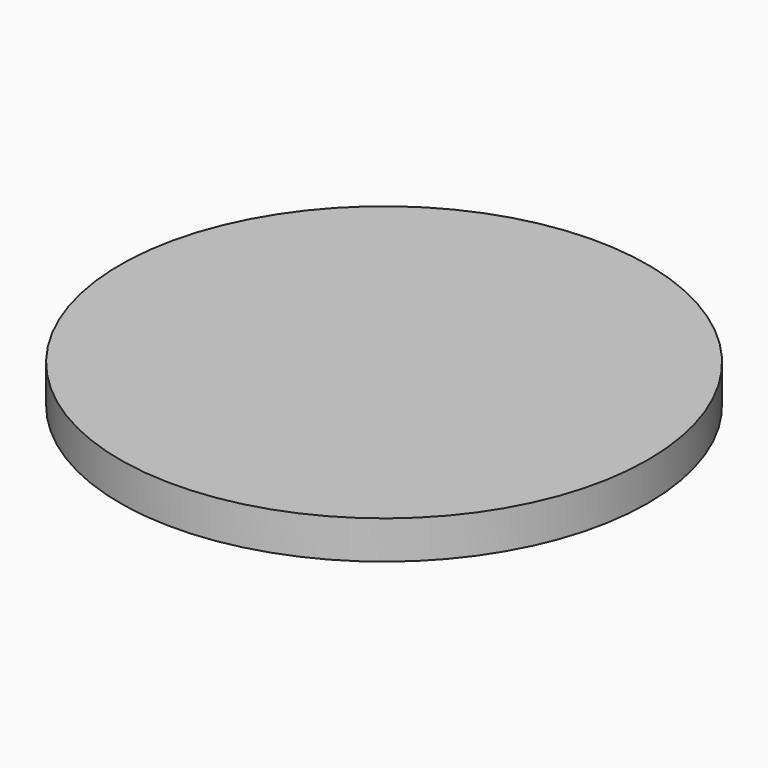
from build123d import *

# Parameters (mm, degrees)
SKETCH_1_R  = 45
PAD_1_DEPTH = 6.5


with BuildPart() as part:
    # Sketch_1 → Pad_1 (new body)
    with BuildSketch(Plane.XY):
        Circle(SKETCH_1_R)
    extrude(amount=PAD_1_DEPTH)


solid = part.part
